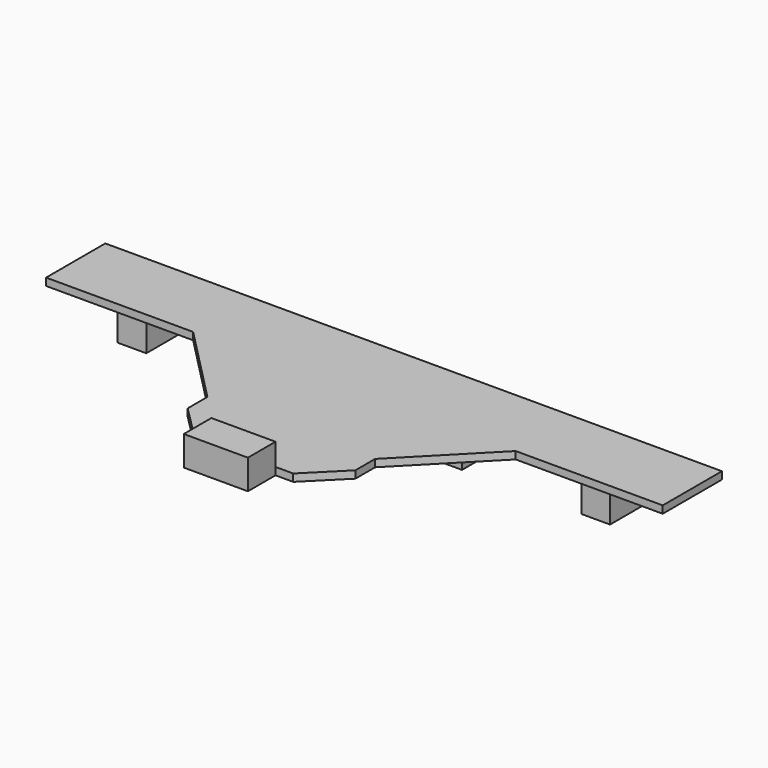
from build123d import *

# Parameters (mm, degrees)
PAD005002_DEPTH = 1.5
SKETCH011_W     = 5.8
SKETCH011_H     = 10.2
PAD005003_DEPTH = 7
SKETCH012_W     = 13
SKETCH012_H     = 7
PAD005004_DEPTH = 6


with BuildPart() as part:
    # Sketch010 → Pad005002 (new body)
    with BuildSketch(Plane.XY):
        Polygon((-62.5, 25), (62.5, 25), (62.5, 10), (32.686661, 10), (17, -6), (17, -11), (10, -18), (-10, -18), (-17, -11), (-17, -6), (-32.686661, 10), (-62.5, 10), align=None)
    extrude(amount=PAD005002_DEPTH)

    # Sketch011 (on Face13 of Pad005002) → Pad005003 (join)
    with BuildSketch(Plane(origin=(0, 0, 0), x_dir=(1, 0, 0), z_dir=(0, 0, -1))):
        Rectangle(SKETCH011_W, SKETCH011_H)
        with Locations((-47, -17.497188)):
            Rectangle(SKETCH011_W, SKETCH011_H)
        with Locations((-17, -17.497188)):
            Rectangle(SKETCH011_W, SKETCH011_H)
        with Locations((17, -17.497188)):
            Rectangle(SKETCH011_W, SKETCH011_H)
        with Locations((47, -17.497188)):
            Rectangle(SKETCH011_W, SKETCH011_H)
    extrude(amount=PAD005003_DEPTH)

    # Sketch012 → Pad005004 (join)
    with BuildSketch(Plane.XY):
        with Locations((-0.091507, -21.5)):
            Rectangle(SKETCH012_W, SKETCH012_H)
    extrude(amount=PAD005004_DEPTH)


with BuildPart() as part_1:
    # Body003002 placement: moved
    add(part.part.moved(Location((0, -93.5, 0))))


solid = part_1.part
